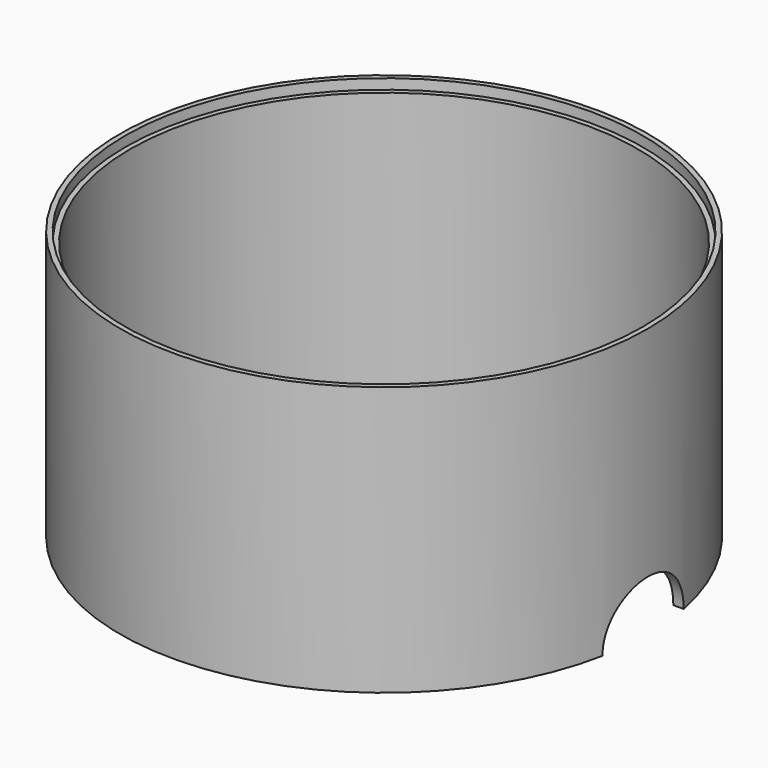
from build123d import *

# Parameters (mm, degrees)
CYLINDER009_R           = 51
CYLINDER009_DEPTH       = 16
CYLINDER006_R           = 10
CYLINDER006_DEPTH       = 10
CYLINDER006_PITCH_ANGLE = 90
CYLINDER005_R           = 50
CYLINDER005_DEPTH       = 67
CYLINDER004_R           = 52
CYLINDER004_DEPTH       = 53


with BuildPart() as cylinder004:
    # Cylinder009 → Cylinder009 (new body)
    with BuildSketch(Plane.XY.offset(51)):
        Circle(CYLINDER009_R)
    extrude(amount=CYLINDER009_DEPTH)


with BuildPart() as wire_hole:
    # Cylinder006 → Cylinder006 (new body)
    with BuildSketch(Plane.XY):
        Circle(CYLINDER006_R)
    extrude(amount=CYLINDER006_DEPTH)


with BuildPart() as wire_hole_1:
    # Cylinder006 pitch: moved
    add(wire_hole.part.rotate(Axis((0, 0, 0), (0, 1, 0)), CYLINDER006_PITCH_ANGLE))


with BuildPart() as wire_hole_2:
    # Cylinder006 placement: moved
    add(wire_hole_1.part.moved(Location((45, 0, 0))))


with BuildPart() as inner:
    # Cylinder005 → Cylinder005 (new body)
    with BuildSketch(Plane.XY):
        Circle(CYLINDER005_R)
    extrude(amount=CYLINDER005_DEPTH)


with BuildPart() as case_with_edge:
    # Cylinder004 → Cylinder004 (new body)
    with BuildSketch(Plane.XY):
        Circle(CYLINDER004_R)
    extrude(amount=CYLINDER004_DEPTH)

    # Cut002: cut Inner
    add(inner.part, mode=Mode.SUBTRACT)

    # Cut003: cut Wire hole
    add(wire_hole_2.part, mode=Mode.SUBTRACT)

    # Cut005: cut Cylinder004
    add(cylinder004.part, mode=Mode.SUBTRACT)


solid = case_with_edge.part
